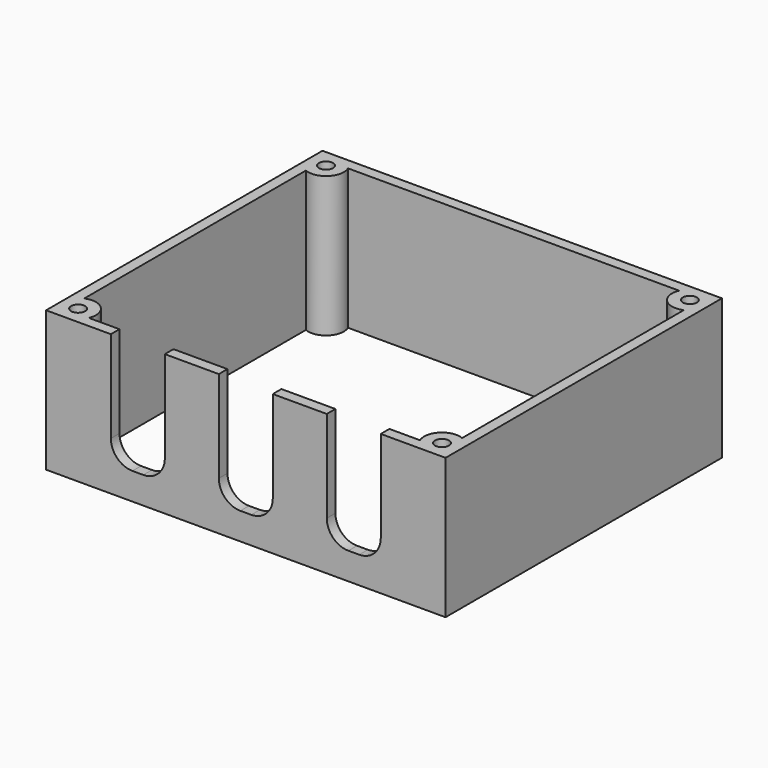
from build123d import *

# Parameters (mm, degrees)
BOX010_W          = 10
BOX010_H          = 10
BOX010_DEPTH      = 21
FILLET001_R       = 4
ARRAY008_X_COUNT  = 3
ARRAY008_X_PITCH  = 20
BOX008_W          = 70
BOX008_H          = 60
BOX008_DEPTH      = 26
BOX007_W          = 74
BOX007_H          = 64
BOX007_DEPTH      = 26
CYLINDER007_R     = 1.3
CYLINDER007_DEPTH = 26
CYLINDER006_R     = 3.3
CYLINDER006_DEPTH = 26
ARRAY004_X_COUNT  = 2
ARRAY004_X_PITCH  = 67.4
ARRAY004_Y_COUNT  = 2
ARRAY004_Y_PITCH  = 57.4


with BuildPart() as wall_hole_array:
    # Box010 → Box010 (new body)
    with BuildSketch(Plane(origin=(34.5, -4.5, 8), x_dir=(1, 0, 0), z_dir=(0, 0, 1))):
        with Locations((5, 5)):
            Rectangle(BOX010_W, BOX010_H)
    extrude(amount=BOX010_DEPTH)

    # Fillet001
    fillet001_edges = [wall_hole_array.edges().sort_by_distance(p)[0] for p in [
        (34.5, 0.5, 8),
        (44.5, 0.5, 8),
    ]]
    fillet(fillet001_edges, radius=FILLET001_R)

    # Array008 X: wall hole array ×3


with BuildPart() as wall_hole_array_1:
    add(wall_hole_array.part)
    with Locations(*[(i * ARRAY008_X_PITCH, 0, 0) for i in range(1, ARRAY008_X_COUNT)]):
        add(wall_hole_array.part)


with BuildPart() as wall_hole_array_2:
    # Array008 placement: moved
    add(wall_hole_array_1.part.moved(Location((-22.5, 0, 0))))


with BuildPart() as wall_inner_extraction:
    # Box008 → Box008 (new body)
    with BuildSketch(Plane(origin=(2, 2, 0), x_dir=(1, 0, 0), z_dir=(0, 0, 1))):
        with Locations((35, 30)):
            Rectangle(BOX008_W, BOX008_H)
    extrude(amount=BOX008_DEPTH)


with BuildPart() as wall_box_cut:
    # Box007 → Box007 (new body)
    with BuildSketch(Plane.XY):
        with Locations((37, 32)):
            Rectangle(BOX007_W, BOX007_H)
    extrude(amount=BOX007_DEPTH)

    # Cut004: cut wall inner extraction
    add(wall_inner_extraction.part, mode=Mode.SUBTRACT)


with BuildPart() as wall_box_hole:
    # Cylinder007 → Cylinder007 (new body)
    with BuildSketch(Plane.XY):
        Circle(CYLINDER007_R)
    extrude(amount=CYLINDER007_DEPTH)


with BuildPart() as wall_fusion_cut:
    # Cylinder006 → Cylinder006 (new body)
    with BuildSketch(Plane.XY):
        Circle(CYLINDER006_R)
    extrude(amount=CYLINDER006_DEPTH)

    # Cut005: cut wall box hole
    add(wall_box_hole.part, mode=Mode.SUBTRACT)


with BuildPart() as wall_fusion_cut_1:
    # Cut005 placement: moved
    add(wall_fusion_cut.part.moved(Location((3.3, 3.3, 0))))

    # Array004 X: wall fusion cut ×2


with BuildPart() as wall_fusion_cut_2:
    add(wall_fusion_cut_1.part)
    with Locations(*[(i * ARRAY004_X_PITCH, 0, 0) for i in range(1, ARRAY004_X_COUNT)]):
        add(wall_fusion_cut_1.part)

    # Array004 Y: wall fusion cut ×2


with BuildPart() as wall_fusion_cut_3:
    add(wall_fusion_cut_2.part)
    with Locations(*[(0, i * ARRAY004_Y_PITCH, 0) for i in range(1, ARRAY004_Y_COUNT)]):
        add(wall_fusion_cut_2.part)

    # Fusion003: union wall box cut
    add(wall_box_cut.part)


with BuildPart() as wall_fusion_cut_4:
    # Fusion003 placement: moved
    add(wall_fusion_cut_3.part.moved(Location((0, 0, 3))))

    # Cut007: cut wall hole array
    add(wall_hole_array_2.part, mode=Mode.SUBTRACT)


with BuildPart() as wall_fusion_cut_5:
    # Cut007 placement: moved
    add(wall_fusion_cut_4.part.moved(Location((8, 126, 0))))


solid = wall_fusion_cut_5.part
